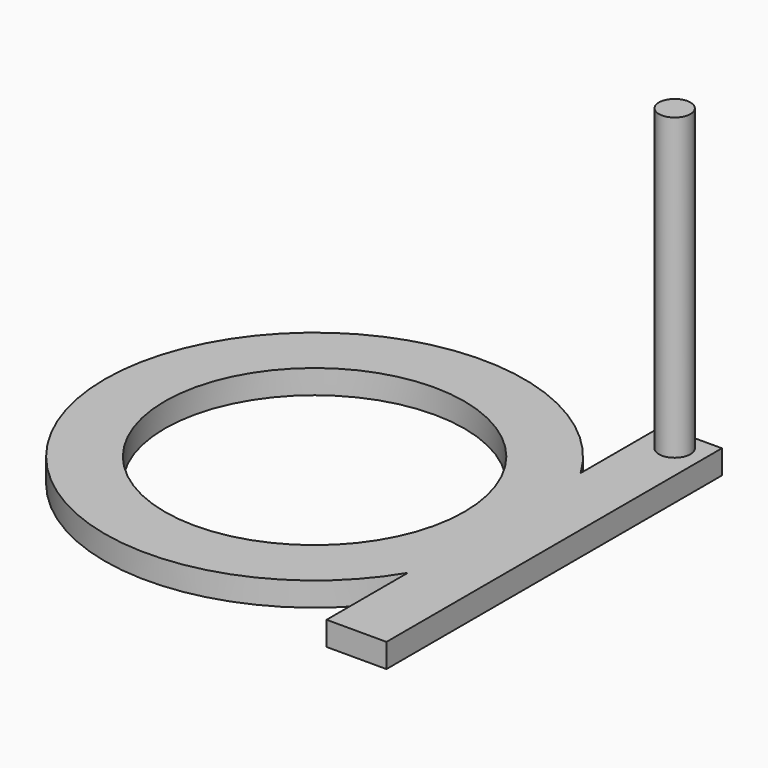
from build123d import *

# Parameters (mm, degrees)
F0_R     = 12.5
F1_DEPTH = 2
F2_R     = 1.3161451829
F3_DEPTH = 25


with BuildPart() as f1:
    # F0 (on Top) → F1 (new body)
    with BuildSketch(Plane.XY):
        with BuildLine():
            ThreePointArc((15, -9.0138781887), (16.863421954, -4.6770717335), (17.5, 0))
            ThreePointArc((17.5, 0), (16.863421954, 4.6770717335), (15, 9.0138781887))
            Line((15, 9.0138781887), (15, -9.0138781887))
        make_face()
        with BuildLine():
            ThreePointArc((15, 9.0138781887), (16.863421954, 4.6770717335), (17.5, 0))
            ThreePointArc((17.5, 0), (16.863421954, -4.6770717335), (15, -9.0138781887))
            Line((15, -9.0138781887), (15, -17.5))
            Line((15, -17.5), (20, -17.5))
            Line((20, -17.5), (20, 17.5))
            Line((20, 17.5), (15, 17.5))
            Line((15, 17.5), (15, 9.0138781887))
        make_face()
        with BuildLine():
            Line((15, -9.0138781887), (15, 9.0138781887))
            ThreePointArc((15, 9.0138781887), (-17.5, 0), (15, -9.0138781887))
        make_face()
        Circle(F0_R, mode=Mode.SUBTRACT)
    extrude(amount=F1_DEPTH)

    # F2 (on face) → F3 (join)
    with BuildSketch(Plane.XY.offset(2)):
        with Locations((17.6118854433, 15.5552299693)):
            Circle(F2_R)
    extrude(amount=F3_DEPTH)


solid = f1.part
